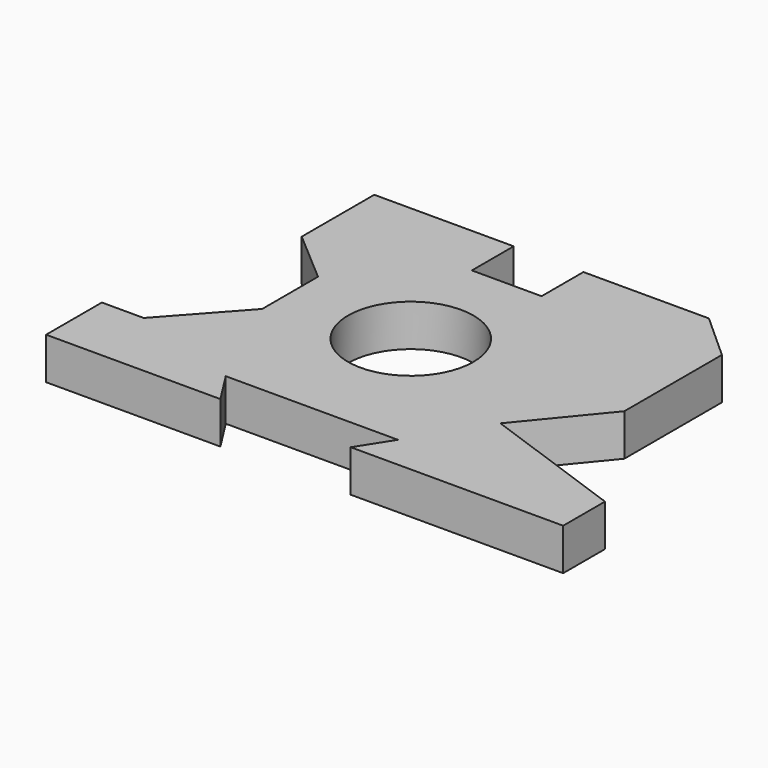
from build123d import *

# Parameters (mm, degrees)
F0_R     = 18
F1_DEPTH = 12


with BuildPart() as f1:
    # F0 (on Top) → F1 (new body)
    with BuildSketch(Plane.XY):
        Polygon((0, 20), (0, 0), (50, 0), (44, 9.42), (93.395011, 9.42), (87.395011, 0), (148.33, 0), (148.33, 15), (106.33, 30), (124.33, 51.92), (124.33, 86.92), (111, 98.92), (75, 98.92), (75, 83.92), (55, 83.92), (55, 98.92), (15, 98.92), (15, 72.92), (30, 60), (30, 40), (12, 20), align=None)
        with Locations((65, 49.5)):
            Circle(F0_R, mode=Mode.SUBTRACT)
    extrude(amount=F1_DEPTH)


solid = f1.part
